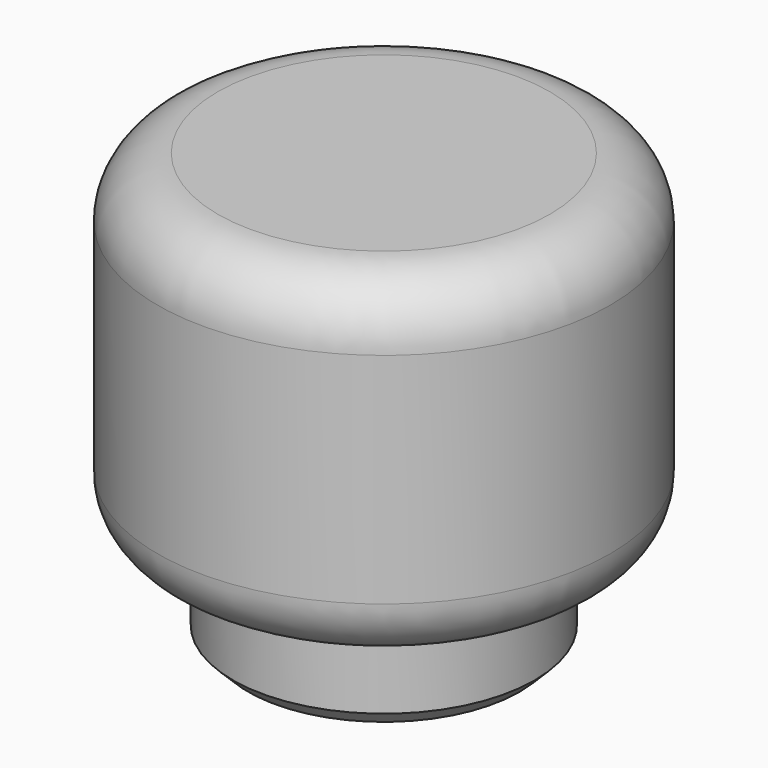
from build123d import *


with BuildPart() as f1:
    # F0 (on Front) → F1 (revolve)
    with BuildSketch(Plane.XZ):
        with BuildLine():
            Line((9, 0), (10, 1))
            Line((10, 1), (10, 6))
            Line((10, 6), (11, 6))
            ThreePointArc((11, 6), (13.828427, 7.171573), (15, 10))
            Line((15, 10), (15, 24.5))
            ThreePointArc((15, 24.5), (13.828427, 27.328427), (11, 28.5))
            Line((11, 28.5), (0, 28.5))
            Line((0, 28.5), (0, 0))
            Line((0, 0), (9, 0))
        make_face()
    revolve(axis=Axis((0, 0, 14.25), (0, 0, -1)))


solid = f1.part
